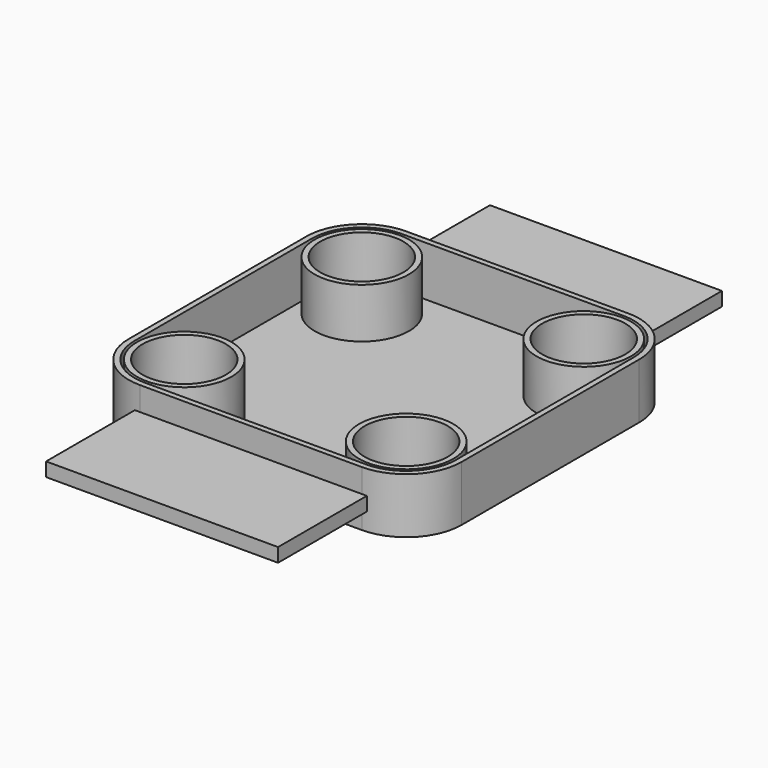
from build123d import *

# Parameters (mm, degrees)
F0_W     = 152.4
F0_H     = 152.4
F0_R     = 19.05
F1_DEPTH = 25.4
F2_W     = 106.200316
F2_H     = 6.331729
F3_DEPTH = 50.8
F5_R     = 25.4
F6_T     = -2.54


with BuildPart() as f1:
    # F0 (on Top) → F1 (new body)
    with BuildSketch(Plane.XY):
        Rectangle(F0_W, F0_H)
        with Locations((-50.8, -50.8)):
            Circle(F0_R, mode=Mode.SUBTRACT)
        with Locations((50.8, -50.8)):
            Circle(F0_R, mode=Mode.SUBTRACT)
        with Locations((-50.8, 50.8)):
            Circle(F0_R, mode=Mode.SUBTRACT)
        with Locations((50.8, 50.8)):
            Circle(F0_R, mode=Mode.SUBTRACT)
    extrude(amount=F1_DEPTH)

    # F5
    f5_edges = [f1.edges().sort_by_distance(p)[0] for p in [
        (76.2, -76.2, 12.7),
        (76.2, 76.2, 12.7),
        (-76.2, -76.2, 12.7),
        (-76.2, 76.2, 12.7),
    ]]
    fillet(f5_edges, radius=F5_R)

    # F6
    f6_openings = [f1.faces().sort_by_distance(p)[0] for p in [
        (0, 0, 25.4),
    ]]
    offset(amount=F6_T, openings=f6_openings)


with BuildPart() as f3:
    # F2 (on face) → F3 (new body)
    with BuildSketch(Plane.XZ.offset(76.2)):
        with Locations((0, 11.368326)):
            Rectangle(F2_W, F2_H)
    extrude(amount=F3_DEPTH)


with BuildPart() as f4_1:
    # F4: instance of F3
    add(f3.part.mirror(Plane.XZ))


solid = Compound([f1.part, f3.part, f4_1.part])
